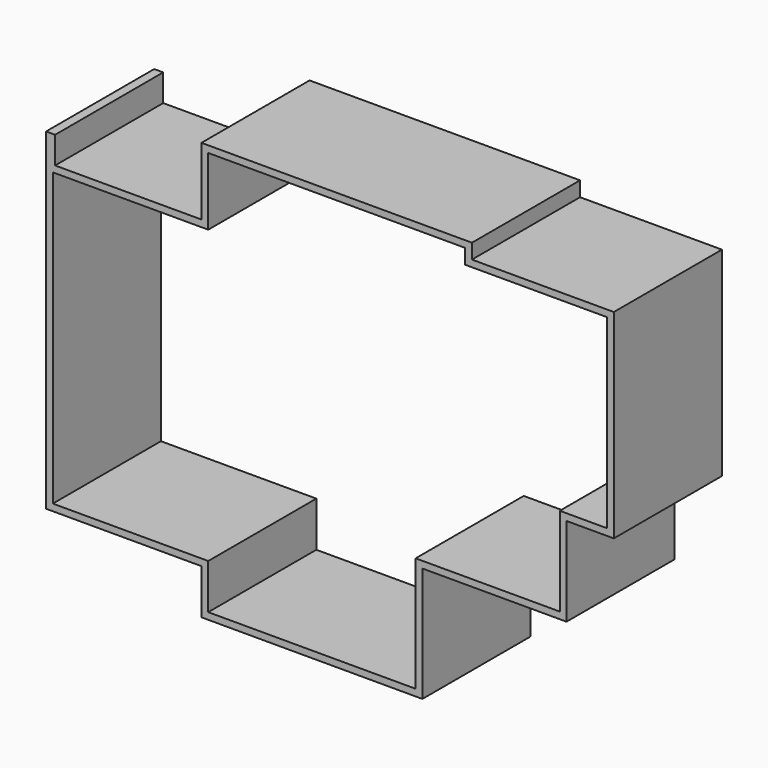
from build123d import *

# Parameters (mm, degrees)
F1_DEPTH = 3000


with BuildPart() as f1:
    # F0 (on Front) → F1 (new body)
    with BuildSketch(Plane.XZ):
        Polygon((821.643364, -720), (821.643364, -3520), (2571.643364, -3520), (4271.643364, -3520), (4271.643364, -4520), (7726.643364, -4520), (9176.643364, -4520), (9176.643364, -1970), (12376.643364, -1970), (12376.643364, 0), (13426.643364, 0), (13426.643364, 4425), (10276.643364, 4425), (10276.643364, 4755), (7326.643364, 4755), (4271.643364, 4755), (4271.643364, 3255), (1021.643364, 3255), (1021.643364, 3855), (821.643364, 3855), (821.643364, 3255), align=None)
        Polygon((7326.643364, 4605), (10126.643364, 4605), (10126.643364, 4275), (13276.643364, 4275), (13276.643364, 150), (12226.643364, 150), (12226.643364, -1820), (9026.643364, -1820), (9026.643364, -4370), (7726.643364, -4370), (4421.643364, -4370), (4421.643364, -3370), (2571.643364, -3370), (971.643364, -3370), (971.643364, -720), (971.643364, 3105), (4421.643364, 3105), (4421.643364, 4605), align=None, mode=Mode.SUBTRACT)
    extrude(amount=F1_DEPTH)


solid = f1.part
